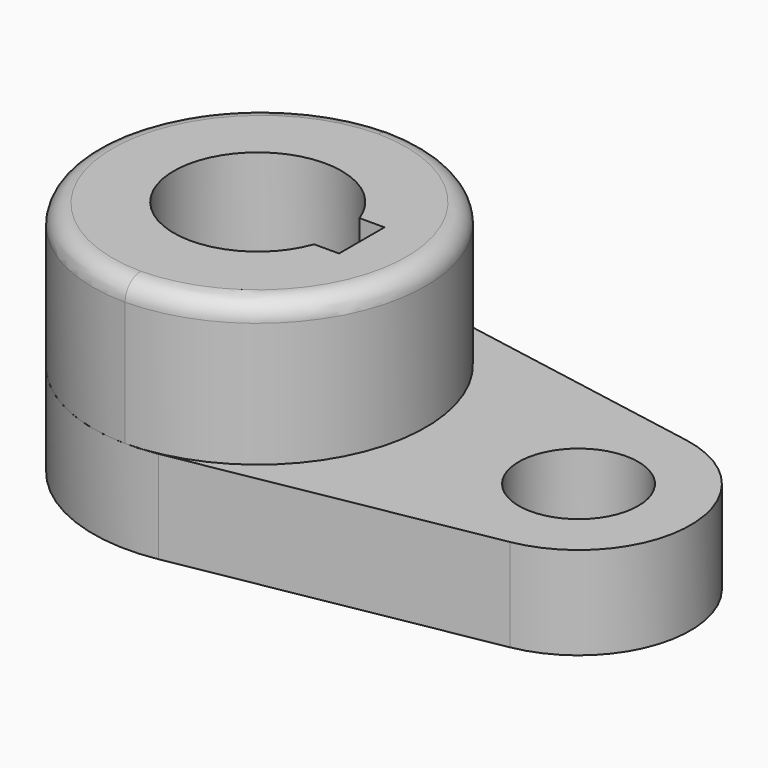
from build123d import *

# Parameters (mm, degrees)
F0_R     = 10.16
F1_DEPTH = 15.7734
F3_DEPTH = 24.4602
F4_R     = 3.302


with BuildPart() as f1:
    # F0 (on Top) → F1 (new body)
    with BuildSketch(Plane.XY):
        with BuildLine():
            ThreePointArc((5.6256016141, 28.1265414802), (22.4989791116, 18.3362616868), (29.1579545553, 0))
            ThreePointArc((29.1579545553, 0), (27.2095111336, -10.3709743893), (21.6298978776, -19.3276175921))
            ThreePointArc((21.6298978776, -19.3276175921), (14.3496515797, -25.0401413343), (5.6256016141, -28.1265414802))
            Line((5.6256016141, -28.1265414802), (57.9197192612, -18.7510276535))
            ThreePointArc((57.9197192612, -18.7510276535), (73.6079545553, 0), (57.9197192612, 18.7510276535))
            Line((57.9197192612, 18.7510276535), (5.6256016141, 28.1265414802))
        make_face()
        with Locations((54.5579545553, 0)):
            Circle(F0_R, mode=Mode.SUBTRACT)
        with BuildLine():
            ThreePointArc((21.6298978776, -19.3276175921), (27.2095111336, -10.3709743893), (29.1579545553, 0))
            ThreePointArc((29.1579545553, 0), (22.4989791116, 18.3362616868), (5.6256016141, 28.1265414802))
            ThreePointArc((5.6256016141, 28.1265414802), (-27.9920454447, 0), (5.6256016141, -28.1265414802))
            ThreePointArc((5.6256016141, -28.1265414802), (14.3496515797, -25.0401413343), (21.6298978776, -19.3276175921))
        make_face()
        with BuildLine():
            ThreePointArc((13.4477648793, -4.826), (-14.2875, 0), (13.4477648793, 4.826))
            Line((13.4477648793, 4.826), (17.6895648793, 4.826))
            Line((17.6895648793, 4.826), (17.6895648793, -4.826))
            Line((17.6895648793, -4.826), (13.4477648793, -4.826))
        make_face(mode=Mode.SUBTRACT)
    extrude(amount=F1_DEPTH)


with BuildPart() as f3:
    # F2 (on face) → F3 (new body)
    with BuildSketch(Plane.XY.offset(15.7734)):
        with BuildLine():
            ThreePointArc((0.2914772776, -28.5735133646), (20.3083675884, -20.102259348), (28.575, 0))
            ThreePointArc((28.575, 0), (20.3083675884, 20.102259348), (0.2914772776, 28.5735133646))
            ThreePointArc((0.2914772776, 28.5735133646), (-27.9920454447, 0), (0.2914772776, -28.5735133646))
        make_face()
        with BuildLine():
            Line((17.6895648793, 4.826), (17.6895648793, -4.826))
            Line((17.6895648793, -4.826), (13.4477648793, -4.826))
            ThreePointArc((13.4477648793, -4.826), (-14.2875, 0), (13.4477648793, 4.826))
            Line((13.4477648793, 4.826), (17.6895648793, 4.826))
        make_face(mode=Mode.SUBTRACT)
    extrude(amount=F3_DEPTH)

    # F4
    f4_edges = [f3.edges().sort_by_distance(p)[0] for p in [
        (-27.992045, 0, 40.2336),
        (28.575, 0, 40.2336),
    ]]
    fillet(f4_edges, radius=F4_R)


solid = Compound([f1.part, f3.part])
